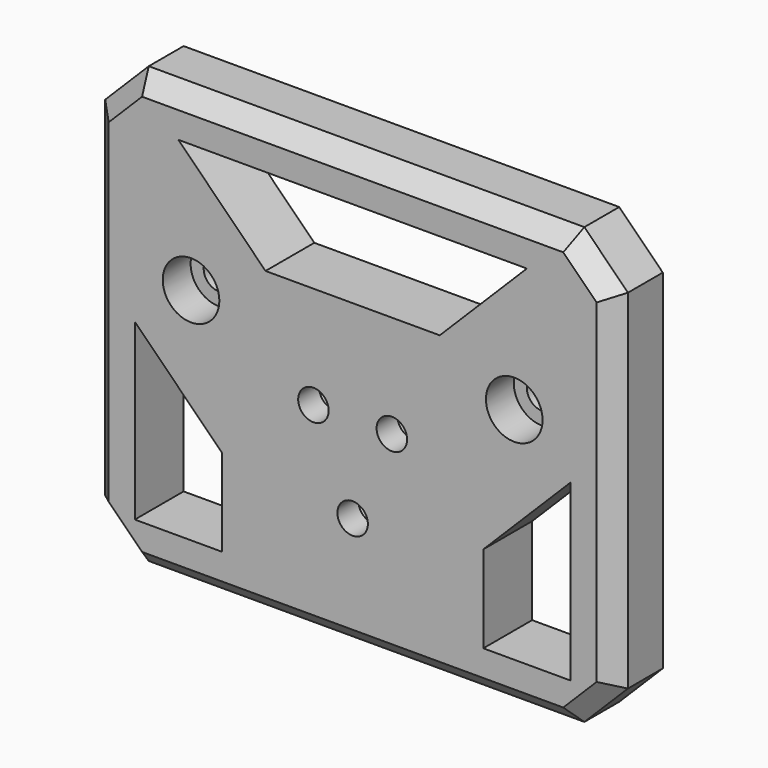
from build123d import *

# Parameters (mm, degrees)
F0_W     = 60
F0_H     = 50
F0_R     = 1.75
F1_DEPTH = 7
F2_SIZE  = 5
F3_R     = 3.25
F4_DEPTH = 4
F5_R     = 3.25
F6_DEPTH = 4
F8_DEPTH = 7.001
F9_SIZE  = 2


with BuildPart() as f1:
    # F0 (on Front) → F1 (new body)
    with BuildSketch(Plane.XZ):
        with Locations((0, 16.7464785278)):
            Rectangle(F0_W, F0_H)
        with Locations((-4.5, 14.9913392961)):
            Circle(F0_R, mode=Mode.SUBTRACT)
        with Locations((0, 4.9913392961)):
            Circle(F0_R, mode=Mode.SUBTRACT)
        with Locations((4.5, 14.9913392961)):
            Circle(F0_R, mode=Mode.SUBTRACT)
        with Locations((-18.55, 22.0145061612)):
            Circle(F0_R, mode=Mode.SUBTRACT)
        with Locations((18.55, 22.0145061612)):
            Circle(F0_R, mode=Mode.SUBTRACT)
    extrude(amount=F1_DEPTH)

    # F2
    f2_edges = [f1.edges().sort_by_distance(p)[0] for p in [
        (-30, -3.5, -8.253521),
        (30, -3.5, -8.253521),
        (30, -3.5, 41.746479),
        (-30, -3.5, 41.746479),
    ]]
    chamfer(f2_edges, length=F2_SIZE)

    # F3 (on face) → F4 (cut)
    with BuildSketch(Plane(origin=(0, 0, 0), x_dir=(-1, 0, 0), z_dir=(0, 1, 0))):
        with Locations((-4.5, 14.9913392961)):
            Circle(F3_R)
        with Locations((4.5, 14.9913392961)):
            Circle(F3_R)
        with Locations((0, 4.9913392961)):
            Circle(F3_R)
    extrude(amount=-F4_DEPTH, mode=Mode.SUBTRACT)

    # F5 (on face) → F6 (cut)
    with BuildSketch(Plane.XZ.offset(7)):
        with Locations((-18.55, 22.0145061612)):
            Circle(F5_R)
        with Locations((18.55, 22.0145061612)):
            Circle(F5_R)
    extrude(amount=-F6_DEPTH, mode=Mode.SUBTRACT)

    # F7 (on face) → F8 (cut, through all)
    with BuildSketch(Plane.XZ.offset(7)):
        Polygon((20, 36.7464785278), (0, 36.7464785278), (-20, 36.7464785278), (-10, 26.7464785278), (0, 26.7464785278), (10, 26.7464785278), align=None)
        Polygon((25, -3.2535214722), (25, 16.7464785278), (15, 6.7464785278), (15, -3.2535214722), align=None)
        Polygon((-15, 6.7464785278), (-25, 16.7464785278), (-25, -3.2535214722), (-15, -3.2535214722), align=None)
    extrude(amount=-F8_DEPTH, mode=Mode.SUBTRACT)

    # F9
    f9_edges = [f1.edges().sort_by_distance(p)[0] for p in [
        (0, -7, 41.746479),
        (27.5, -7, 39.246479),
        (-27.5, -7, 39.246479),
        (30, -7, 16.746479),
        (27.5, -7, -5.753521),
        (0, -7, -8.253521),
        (-27.5, -7, -5.753521),
        (-30, -7, 16.746479),
    ]]
    chamfer(f9_edges, length=F9_SIZE)


solid = f1.part
